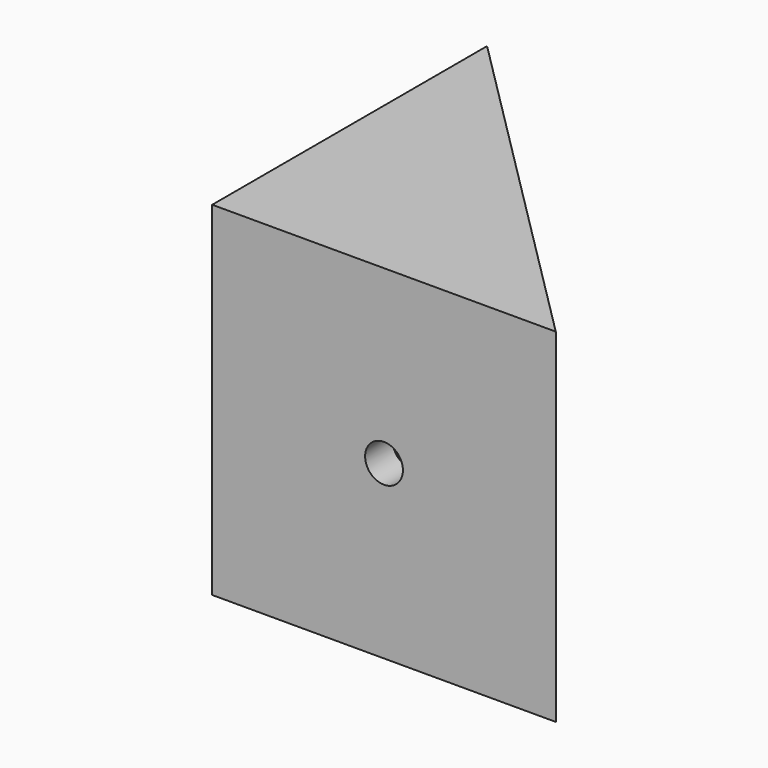
from build123d import *

# Parameters (mm, degrees)
F2_DEPTH  = 30
F4_R      = 3.25
F5_DEPTH  = 27.001
F6_R      = 1.65
F7_DEPTH  = 3.001
F9_R      = 3.25
F10_DEPTH = 27.001
F11_R     = 1.65
F12_DEPTH = 25


with BuildPart() as f2:
    # F1 (on Top) → F2 (new body)
    with BuildSketch(Plane.XY):
        Polygon((-15, -15), (15, -15), (-15, 15), align=None)
    extrude(amount=F2_DEPTH)

    # F4 (on offset) → F5 (cut, through all)
    with BuildSketch(Plane(origin=(-12, 0, 0), x_dir=(0, -1, 0), z_dir=(-1, 0, 0))):
        with Locations((0, 15)):
            Circle(F4_R)
    extrude(amount=-F5_DEPTH, mode=Mode.SUBTRACT)

    # F6 (on offset) → F7 (cut, through all)
    with BuildSketch(Plane(origin=(-12, 0, 0), x_dir=(0, -1, 0), z_dir=(-1, 0, 0))):
        with Locations((0, 15)):
            Circle(F6_R)
    extrude(amount=F7_DEPTH, mode=Mode.SUBTRACT)

    # F9 (on offset) → F10 (cut, through all)
    with BuildSketch(Plane.XZ.offset(12)):
        with Locations((0, 15)):
            Circle(F9_R)
    extrude(amount=-F10_DEPTH, mode=Mode.SUBTRACT)

    # F11 (on offset) → F12 (cut)
    with BuildSketch(Plane.XZ.offset(12)):
        with Locations((0, 15)):
            Circle(F11_R)
    extrude(amount=F12_DEPTH, mode=Mode.SUBTRACT)


solid = f2.part
